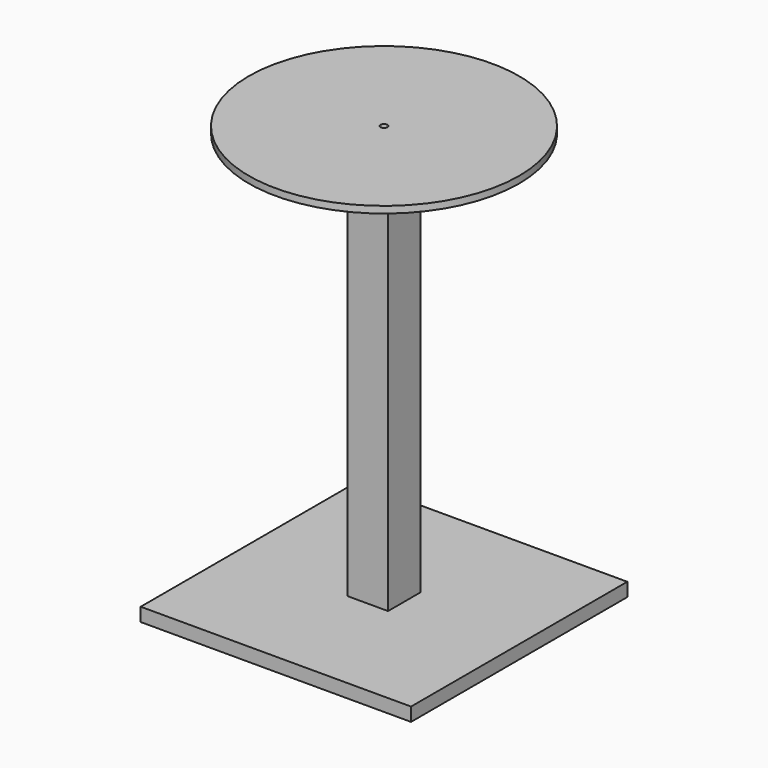
from build123d import *

# Parameters (mm, degrees)
F0_W     = 508
F0_H     = 508
F1_DEPTH = 25.4
F2_W     = 76.2
F2_H     = 76.2
F3_DEPTH = 762
F4_R     = 254
F5_DEPTH = 12.7
F6_R     = 6.35
F7_DEPTH = 152.4


with BuildPart() as f1:
    # F0 (on Top) → F1 (new body)
    with BuildSketch(Plane.XY):
        Rectangle(F0_W, F0_H)
    extrude(amount=F1_DEPTH)

    # F2 (on face) → F3 (join)
    with BuildSketch(Plane.XY.offset(25.4)):
        Rectangle(F2_W, F2_H)
    extrude(amount=F3_DEPTH)

    # F4 (on face) → F5 (join)
    with BuildSketch(Plane.XY.offset(787.4)):
        Circle(F4_R)
    extrude(amount=F5_DEPTH)

    # F6 (on face) → F7 (cut)
    with BuildSketch(Plane.XY.offset(800.1)):
        Circle(F6_R)
    extrude(amount=-F7_DEPTH, mode=Mode.SUBTRACT)


solid = f1.part
